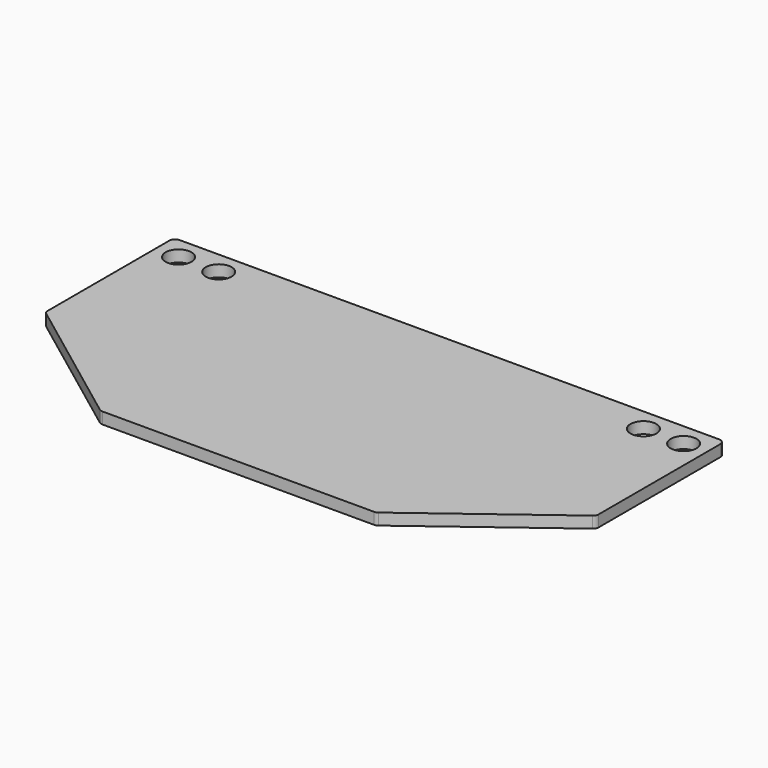
from build123d import *

# Parameters (mm, degrees)
F0_R     = 14.2875
F1_DEPTH = 12.7


with BuildPart() as f1:
    # F0 (on Top) → F1 (new body)
    with BuildSketch(Plane.XY):
        with BuildLine():
            ThreePointArc((-298.45, 0), (-302.940128, -1.859872), (-304.8, -6.35))
            Line((-304.8, -6.35), (-304.8, -174.625))
            ThreePointArc((-304.8, -174.625), (-304.129613, -177.464806), (-302.26, -179.705))
            Line((-302.26, -179.705), (-154.093333, -290.83))
            ThreePointArc((-154.093333, -290.83), (-152.29138, -291.774139), (-150.283333, -292.1))
            Line((-150.283333, -292.1), (150.283333, -292.1))
            ThreePointArc((150.283333, -292.1), (152.29138, -291.774139), (154.093333, -290.83))
            Line((154.093333, -290.83), (302.26, -179.705))
            ThreePointArc((302.26, -179.705), (304.129613, -177.464806), (304.8, -174.625))
            Line((304.8, -174.625), (304.8, -6.35))
            ThreePointArc((304.8, -6.35), (302.940128, -1.859872), (298.45, 0))
            Line((298.45, 0), (-298.45, 0))
        make_face()
        with Locations((-279.4, -25.4)):
            Circle(F0_R, mode=Mode.SUBTRACT)
        with Locations((-234.95, -25.4)):
            Circle(F0_R, mode=Mode.SUBTRACT)
        with Locations((234.95, -25.4)):
            Circle(F0_R, mode=Mode.SUBTRACT)
        with Locations((279.4, -25.4)):
            Circle(F0_R, mode=Mode.SUBTRACT)
    extrude(amount=F1_DEPTH)


solid = f1.part
